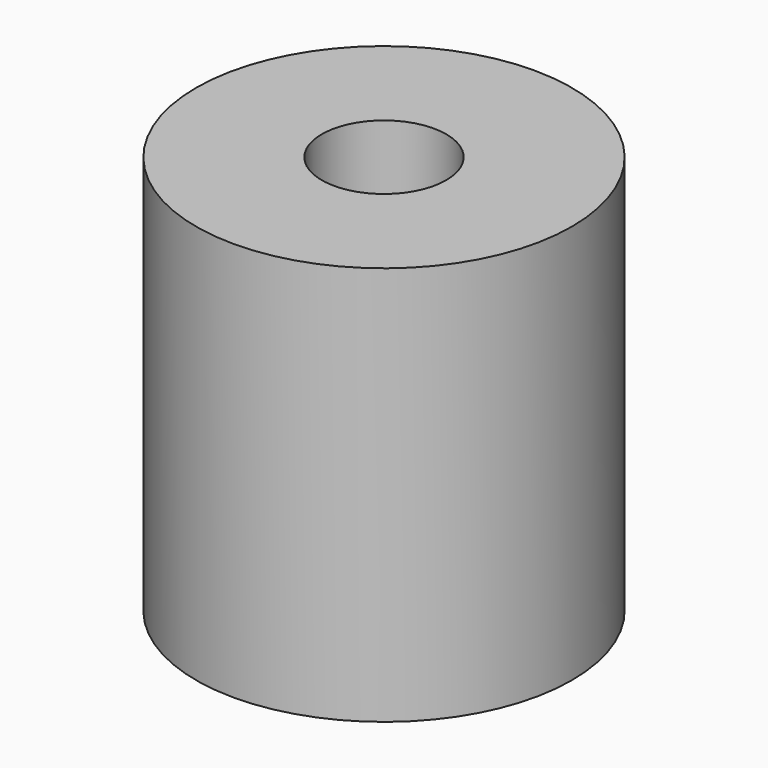
from build123d import *

# Parameters (mm, degrees)
CYLINDER1841_R     = 2.65
CYLINDER1841_DEPTH = 40
CYLINDER1838_R     = 8
CYLINDER1838_DEPTH = 17


with BuildPart() as obj1:
    # Cylinder1841 → Cylinder1841 (new body)
    with BuildSketch(Plane(origin=(0, 83, 232), x_dir=(1, 0, 0), z_dir=(0, 0, 1))):
        Circle(CYLINDER1841_R)
    extrude(amount=CYLINDER1841_DEPTH)


with BuildPart() as cut566:
    # Cylinder1838 → Cylinder1838 (new body)
    with BuildSketch(Plane(origin=(0, 83, 252), x_dir=(1, 0, 0), z_dir=(0, 0, 1))):
        Circle(CYLINDER1838_R)
    extrude(amount=CYLINDER1838_DEPTH)

    # Cut566: cut obj1
    add(obj1.part, mode=Mode.SUBTRACT)


solid = cut566.part
